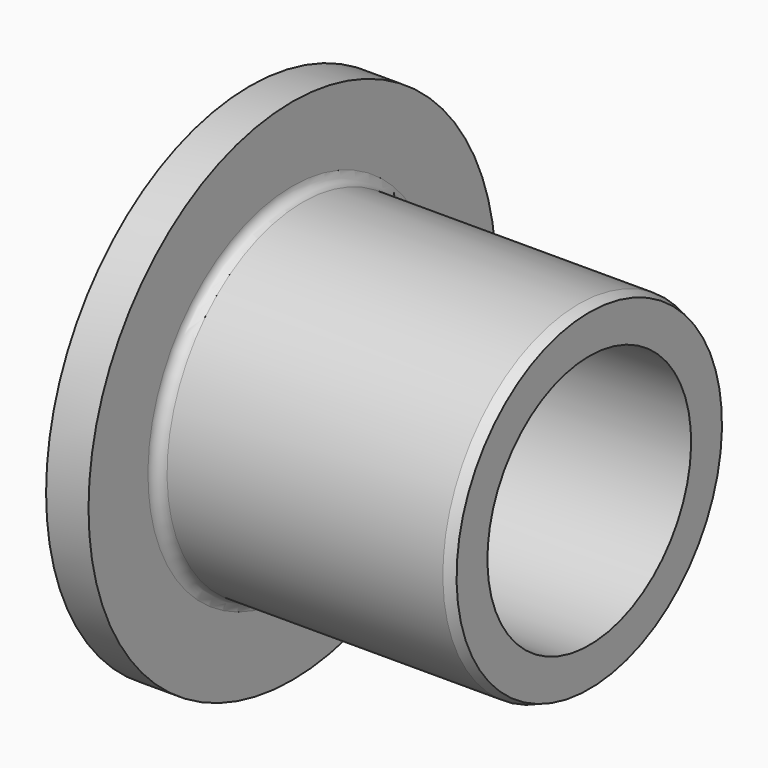
from build123d import *


with BuildPart() as f1:
    # F0 (on Front) → F1 (revolve)
    with BuildSketch(Plane.XZ):
        with BuildLine():
            ThreePointArc((-1.815014, 4.25), (-1.448898, 3.366117), (-0.565014, 3))
            Line((-0.565014, 3), (6.184986, 3))
            Line((6.184986, 3), (6.184986, 3.909007))
            Line((6.184986, 3.909007), (5.934986, 4))
            Line((5.934986, 4), (-0.565014, 4))
            ThreePointArc((-0.565014, 4), (-0.741791, 4.073223), (-0.815014, 4.25))
            Line((-0.815014, 4.25), (-0.815014, 6))
            Line((-0.815014, 6), (-1.815014, 6))
            Line((-1.815014, 6), (-1.815014, 4.25))
        make_face()
    revolve(axis=Axis((-0.667828, 0, 0), (1, 0, 0)))


solid = f1.part
